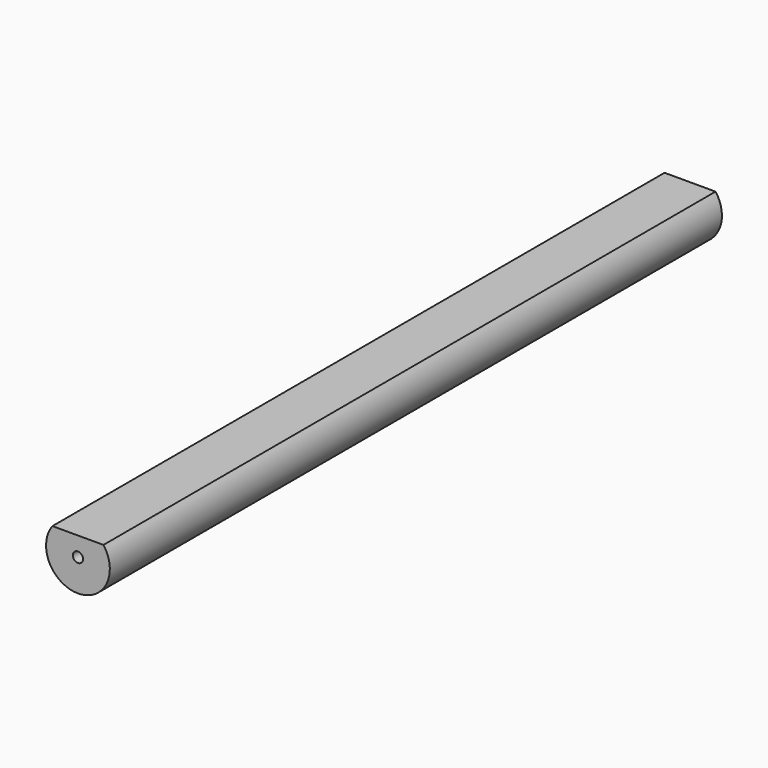
from build123d import *

# Parameters (mm, degrees)
F1_DEPTH = 300
F3_D     = 4
F3_DEPTH = 12
F3_TIP   = 1.2017212381


with BuildPart() as f1:
    # F0 (on Front) → F1 (new body)
    with BuildSketch(Plane.XZ):
        with BuildLine():
            Line((10, 7.5), (-10, 7.5))
            ThreePointArc((-10, 7.5), (0, -12.5), (10, 7.5))
        make_face()
    extrude(amount=F1_DEPTH)

    # F3
    with Locations(Plane.XZ.offset(300)):
        with Locations((0, 0)):
            Hole(F3_D / 2, depth=F3_DEPTH)
            with Locations((0, 0, -(F3_DEPTH + F3_TIP / 2))):  # 118° drill point
                Cone(0, F3_D / 2, F3_TIP, mode=Mode.SUBTRACT)


solid = f1.part
